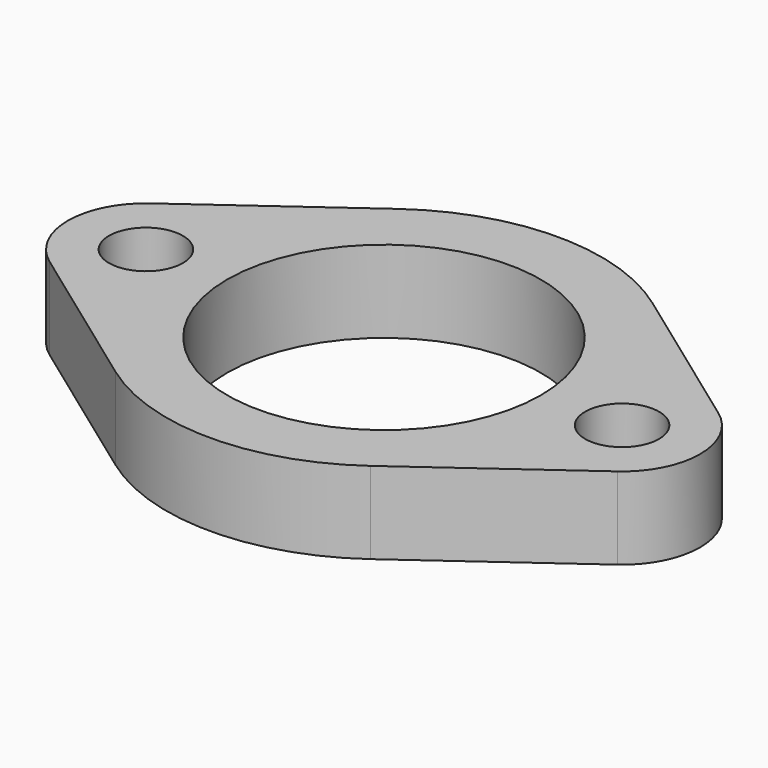
from build123d import *

# Parameters (mm, degrees)
F1_DEPTH = 10
F3_D     = 9
F4_R     = 19.1
F5_DEPTH = 10


with BuildPart() as f1:
    # F0 (on Top) → F1 (new body)
    with BuildSketch(Plane.XY):
        with BuildLine():
            Line((-15.5344827586, 21.4692767792), (-34.5689655172, 7.696533185))
            ThreePointArc((-34.5689655172, 7.696533185), (-38.5, 0), (-34.5689655172, -7.696533185))
            Line((-34.5689655172, -7.696533185), (-15.5344827586, -21.4692767792))
            ThreePointArc((-15.5344827586, -21.4692767792), (0, -26.5), (15.5344827586, -21.4692767792))
            Line((15.5344827586, -21.4692767792), (34.5689655172, -7.696533185))
            ThreePointArc((34.5689655172, -7.696533185), (38.5, 0), (34.5689655172, 7.696533185))
            Line((34.5689655172, 7.696533185), (15.5344827586, 21.4692767792))
            ThreePointArc((15.5344827586, 21.4692767792), (0, 26.5), (-15.5344827586, 21.4692767792))
        make_face()
    extrude(amount=F1_DEPTH)

    # F3 (through all)
    with Locations(Plane.XY.offset(10)):
        with Locations((-29, 0), (29, 0)):
            Hole(F3_D / 2)

    # F4 (on face) → F5 (cut, through all)
    with BuildSketch(Plane.XY.offset(10)):
        Circle(F4_R)
    extrude(amount=-F5_DEPTH, mode=Mode.SUBTRACT)


solid = f1.part
